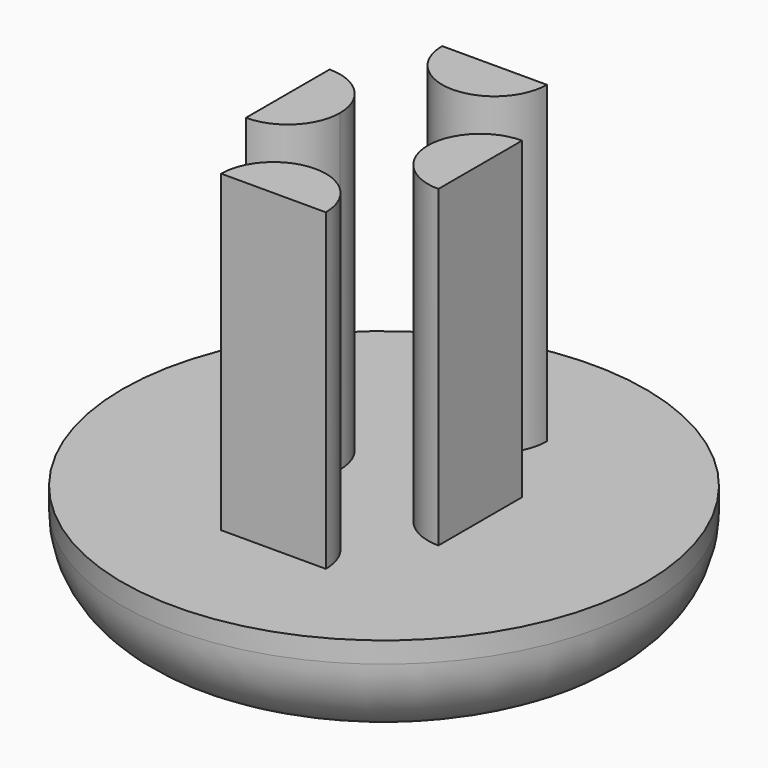
from build123d import *

# Parameters (mm, degrees)
F0_R     = 12.5
F1_DEPTH = 5
F2_R     = 4
F4_DEPTH = 15


with BuildPart() as f1:
    # F0 (on Top) → F1 (new body)
    with BuildSketch(Plane.XY):
        Circle(F0_R)
    extrude(amount=F1_DEPTH)

    # F2
    f2_edges = [f1.edges().sort_by_distance(p)[0] for p in [
        (-12.5, 0, 0),
    ]]
    fillet(f2_edges, radius=F2_R)

    # F3 (on face) → F4 (join)
    with BuildSketch(Plane.XY.offset(5)):
        with BuildLine():
            Line((-2.5, -6.6), (2.5, -6.6))
            ThreePointArc((2.5, -6.6), (0, -4.1), (-2.5, -6.6))
        make_face()
        with BuildLine():
            ThreePointArc((-2.5, 6.6), (0, 4.1), (2.5, 6.6))
            Line((2.5, 6.6), (-2.5, 6.6))
        make_face()
        with BuildLine():
            ThreePointArc((4.6, 2.5), (2.1, 0), (4.6, -2.5))
            Line((4.6, -2.5), (4.6, 2.5))
        make_face()
        with BuildLine():
            Line((-4.6, 2.5), (-4.6, -2.5))
            ThreePointArc((-4.6, -2.5), (-2.832233047, -1.767766953), (-2.1, 0))
            ThreePointArc((-2.1, 0), (-2.832233047, 1.767766953), (-4.6, 2.5))
        make_face()
    extrude(amount=F4_DEPTH)


solid = f1.part
